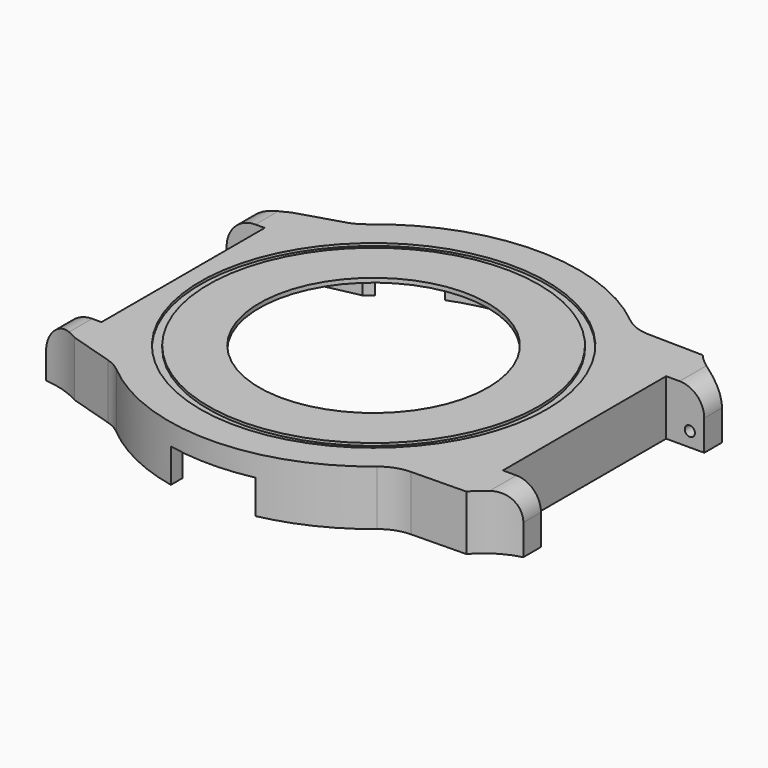
from build123d import *

# Parameters (mm, degrees)
PAD_DEPTH       = 6.5
POCKET_DEPTH    = 6
SKETCH002_R     = 13.5
POCKET001_DEPTH = 1
SKETCH003_W     = 5.4
SKETCH003_H     = 6.5
PAD001_DEPTH    = 4.5
POCKET002_DEPTH = 10
SKETCH008_R     = 0.6
POCKET003_DEPTH = 2
SKETCH009_R     = 0.6
POCKET004_DEPTH = 2
FILLET_R        = 2.9
FILLET001_R     = 2.9
FILLET002_R     = 5
FILLET003_R     = 5
FILLET004_R     = 5
FILLET005_R     = 5
SKETCH010_W     = 3.95
SKETCH010_H     = 6.5
PAD002_DEPTH    = 4.5
POCKET005_DEPTH = 10
SKETCH012_R     = 0.6
POCKET006_DEPTH = 2
SKETCH013_R     = 0.6
POCKET007_DEPTH = 2
FILLET006_R     = 3.4
FILLET007_R     = 3.4
SKETCH014_R     = 20.45
SKETCH014_R_2   = 19.5
POCKET008_DEPTH = 0.3
SKETCH015_R     = 2.2
SKETCH015_R_2   = 0.925
PAD003_DEPTH    = 2
POCKET009_DEPTH = 4
POCKET010_DEPTH = 4


with BuildPart() as part:
    # Sketch → Pad (new body)
    with BuildSketch(Plane.XY):
        with BuildLine():
            Line((-22.5019915649, 16), (-22.5019915649, -16))
            Line((-22.5019915649, -16), (-16.2858834578, -17.9000000001))
            ThreePointArc((-16.2858834577, -17.9000000001), (0.2206895737, -24.1989937004), (16.6096357576, -17.5999999999))
            Line((16.6096357576, -17.6), (24.9082802252, -17.45))
            Line((24.9082802252, 17.45), (24.9082802252, -17.45))
            Line((16.6096357576, 17.6), (24.9082802252, 17.45))
            ThreePointArc((16.6096357576, 17.6), (0.2206895736, 24.1989937004), (-16.2858834578, 17.9))
            Line((-22.5019915649, 16), (-16.2858834578, 17.9))
        make_face()
    extrude(amount=PAD_DEPTH)

    # Sketch001 → Pocket (cut)
    with BuildSketch(Plane.XY):
        with BuildLine():
            Line((-14.8539557021, 16.9), (-21.2122180433, 15.55))
            Line((-21.2122180433, 15.55), (-21.2122180433, -15.55))
            Line((-21.2122180433, -15.55), (-14.8539557021, -16.9))
            ThreePointArc((-14.8539557021, -16.9), (-0.0760301383, -22.4998715423), (14.739402973, -17))
            Line((14.739402973, -17), (23.6191552218, -16.4))
            Line((23.6191552218, 16.4), (23.6191552218, -16.4))
            Line((14.739402973, 17), (23.6191552218, 16.4))
            ThreePointArc((14.739402973, 17), (-0.0760301383, 22.4998715423), (-14.8539557021, 16.9))
        make_face()
    extrude(amount=POCKET_DEPTH, mode=Mode.SUBTRACT)

    # Sketch002 (on Face19 of Pocket) → Pocket001 (cut)
    with BuildSketch(Plane(origin=(0, 0, 6), x_dir=(1, 0, 0), z_dir=(0, 0, -1))):
        Circle(SKETCH002_R)
    extrude(amount=-POCKET001_DEPTH, mode=Mode.SUBTRACT)

    # Sketch003 (on Face6 of Pocket001) → Pad001 (join)
    with BuildSketch(Plane.YZ.offset(24.9082802252)):
        with Locations((-14.75, 3.25)):
            Rectangle(SKETCH003_W, SKETCH003_H)
        with Locations((14.75, 3.25)):
            Rectangle(SKETCH003_W, SKETCH003_H)
    extrude(amount=PAD001_DEPTH)

    # Sketch006 → Pocket002 (cut)
    with BuildSketch(Plane.XY.offset(6.5)):
        with BuildLine():
            ThreePointArc((24.9082802253, 17.45), (26.9423471239, 15.7065020586), (29.4082802252, 14.6594169812))
            Line((29.4082802252, 17.45), (29.4082802252, 14.6594169812))
            Line((29.4082802252, 17.45), (24.9082802252, 17.45))
        make_face()
        with BuildLine():
            ThreePointArc((29.4082802253, -14.6594169812), (26.9423471239, -15.7065020586), (24.9082802253, -17.45))
            Line((29.4082802252, -17.45), (24.9082802252, -17.45))
            Line((29.4082802252, -14.6594169811), (29.4082802252, -17.45))
        make_face()
    extrude(amount=-POCKET002_DEPTH, mode=Mode.SUBTRACT)

    # Sketch008 (on Face27 of Pocket002) → Pocket003 (cut)
    with BuildSketch(Plane(origin=(0, -12.05, 0), x_dir=(-1, 0, 0), z_dir=(0, 1, 0))):
        with Locations((-27.7082802252, 1.7)):
            Circle(SKETCH008_R)
    extrude(amount=-POCKET003_DEPTH, mode=Mode.SUBTRACT)

    # Sketch009 (on Face26 of Pocket003) → Pocket004 (cut)
    with BuildSketch(Plane.XZ.offset(-12.05)):
        with Locations((27.7082802252, 1.7)):
            Circle(SKETCH009_R)
    extrude(amount=-POCKET004_DEPTH, mode=Mode.SUBTRACT)

    # Fillet
    fillet_edges = [part.edges().sort_by_distance(p)[0] for p in [
        (29.40828, -13.354708, 6.5),
    ]]
    fillet(fillet_edges, radius=FILLET_R)

    # Fillet001
    fillet001_edges = [part.edges().sort_by_distance(p)[0] for p in [
        (29.40828, 13.354708, 6.5),
    ]]
    fillet(fillet001_edges, radius=FILLET001_R)

    # Fillet002
    fillet002_edges = [part.edges().sort_by_distance(p)[0] for p in [
        (16.609636, -17.6, 3.25),
    ]]
    fillet(fillet002_edges, radius=FILLET002_R)

    # Fillet003
    fillet003_edges = [part.edges().sort_by_distance(p)[0] for p in [
        (16.609636, 17.6, 3.25),
    ]]
    fillet(fillet003_edges, radius=FILLET003_R)

    # Fillet004
    fillet004_edges = [part.edges().sort_by_distance(p)[0] for p in [
        (-16.285883, -17.9, 3.25),
    ]]
    fillet(fillet004_edges, radius=FILLET004_R)

    # Fillet005
    fillet005_edges = [part.edges().sort_by_distance(p)[0] for p in [
        (-16.285883, 17.9, 3.25),
    ]]
    fillet(fillet005_edges, radius=FILLET005_R)

    # Sketch010 (on Face4 of Fillet005) → Pad002 (join)
    with BuildSketch(Plane(origin=(-22.5019915649, 0, 0), x_dir=(0, -1, 0), z_dir=(-1, 0, 0))):
        with Locations((-14.025, 3.25)):
            Rectangle(SKETCH010_W, SKETCH010_H)
        with Locations((14.025, 3.25)):
            Rectangle(SKETCH010_W, SKETCH010_H)
    extrude(amount=PAD002_DEPTH)

    # Sketch011 (on Face6 of Pad002) → Pocket005 (cut)
    with BuildSketch(Plane.XY.offset(6.5)):
        with BuildLine():
            ThreePointArc((-27.0019915649, 14.6), (-24.6759937451, 15.0557212933), (-22.5019915649, 16))
            Line((-22.5019915649, 16), (-27.0019915649, 16))
            Line((-27.0019915649, 16), (-27.0019915649, 14.6))
        make_face()
        with BuildLine():
            ThreePointArc((-22.5019915649, -16), (-24.6759937451, -15.0557212933), (-27.0019915649, -14.6))
            Line((-27.0019915649, -14.6), (-27.0019915649, -16))
            Line((-27.0019915649, -16), (-22.5019915649, -16))
        make_face()
    extrude(amount=-POCKET005_DEPTH, mode=Mode.SUBTRACT)

    # Sketch012 (on Face23 of Pocket005) → Pocket006 (cut)
    with BuildSketch(Plane(origin=(0, -12.05, 0), x_dir=(-1, 0, 0), z_dir=(0, 1, 0))):
        with Locations((25.3019915649, 1.7)):
            Circle(SKETCH012_R)
    extrude(amount=-POCKET006_DEPTH, mode=Mode.SUBTRACT)

    # Sketch013 (on Face21 of Pocket006) → Pocket007 (cut)
    with BuildSketch(Plane.XZ.offset(-12.05)):
        with Locations((-25.3019915649, 1.7)):
            Circle(SKETCH013_R)
    extrude(amount=-POCKET007_DEPTH, mode=Mode.SUBTRACT)

    # Fillet006
    fillet006_edges = [part.edges().sort_by_distance(p)[0] for p in [
        (-27.001992, 13.325, 6.5),
    ]]
    fillet(fillet006_edges, radius=FILLET006_R)

    # Fillet007
    fillet007_edges = [part.edges().sort_by_distance(p)[0] for p in [
        (-27.001992, -13.325, 6.5),
    ]]
    fillet(fillet007_edges, radius=FILLET007_R)

    # Sketch014 (on Face4 of Fillet007) → Pocket008 (cut)
    with BuildSketch(Plane.XY.offset(6.5)):
        Circle(SKETCH014_R)
        Circle(SKETCH014_R_2, mode=Mode.SUBTRACT)
    extrude(amount=-POCKET008_DEPTH, mode=Mode.SUBTRACT)

    # Sketch015 (on Face55 of Pocket008) → Pad003 (join)
    with BuildSketch(Plane(origin=(0, 0, 6), x_dir=(1, 0, 0), z_dir=(0, 0, -1))):
        with Locations((-18.42, 13.32)):
            Circle(SKETCH015_R)
        with Locations((-18.42, 13.32)):
            Circle(SKETCH015_R_2, mode=Mode.SUBTRACT)
        with Locations((7.27, 18.56)):
            Circle(SKETCH015_R)
        with Locations((7.27, 18.56)):
            Circle(SKETCH015_R_2, mode=Mode.SUBTRACT)
        with Locations((5.37, -19.79)):
            Circle(SKETCH015_R)
        with Locations((5.37, -19.79)):
            Circle(SKETCH015_R_2, mode=Mode.SUBTRACT)
        with Locations((-18.42, -13.32)):
            Circle(SKETCH015_R)
        with Locations((-18.42, -13.32)):
            Circle(SKETCH015_R_2, mode=Mode.SUBTRACT)
    extrude(amount=PAD003_DEPTH)

    # Sketch016 → Pocket009 (cut)
    with BuildSketch(Plane(origin=(0, 0, 0), x_dir=(-1, 0, 0), z_dir=(0, 0, 1))):
        with BuildLine():
            Line((-5, 23.6778377391), (-5, 21.9374109685))
            ThreePointArc((5, 21.9374109685), (0, 22.5), (-5, 21.9374109685))
            Line((5, 23.6778377391), (5, 21.9374109685))
            ThreePointArc((5, 23.6778377391), (0, 24.2), (-5, 23.6778377391))
        make_face()
    extrude(amount=POCKET009_DEPTH, mode=Mode.SUBTRACT)

    # Sketch017 → Pocket010 (cut)
    with BuildSketch(Plane(origin=(0, 0, 0), x_dir=(-1, 0, 0), z_dir=(0, 0, 1))):
        with BuildLine():
            Line((-3.499984119, -22.2261132717), (-3.5, -23.9455632634))
            ThreePointArc((-3.5, -23.9455632634), (0, -24.2000019575), (3.5, -23.9455632634))
            Line((3.5000158811, -22.2261082701), (3.5, -23.9455632634))
            ThreePointArc((-3.499984119, -22.2261132717), (1.60767e-05, -22.5), (3.5000158811, -22.2261082701))
        make_face()
        with BuildLine():
            ThreePointArc((-13.9498796389, -17.6536358312), (-11.25, -19.4855715851), (-8.3135572795, -20.9077680626))
            Line((-8.3135572795, -20.9077680626), (-8.9416927184, -22.487466094))
            ThreePointArc((-15.0038705449, -18.987466094), (-12.1, -20.9578147716), (-8.9416927184, -22.487466094))
            Line((-13.9498796389, -17.6536358312), (-15.0038705449, -18.987466094))
        make_face()
        with BuildLine():
            ThreePointArc((8.3135572795, -20.9077680626), (11.25, -19.4855715851), (13.9498796389, -17.6536358312))
            Line((13.9498796389, -17.6536358312), (15.0038705449, -18.987466094))
            ThreePointArc((8.9416927184, -22.487466094), (12.1, -20.9578147716), (15.0038705449, -18.987466094))
            Line((8.3135572795, -20.9077680626), (8.9416927184, -22.487466094))
        make_face()
    extrude(amount=POCKET010_DEPTH, mode=Mode.SUBTRACT)


solid = part.part
